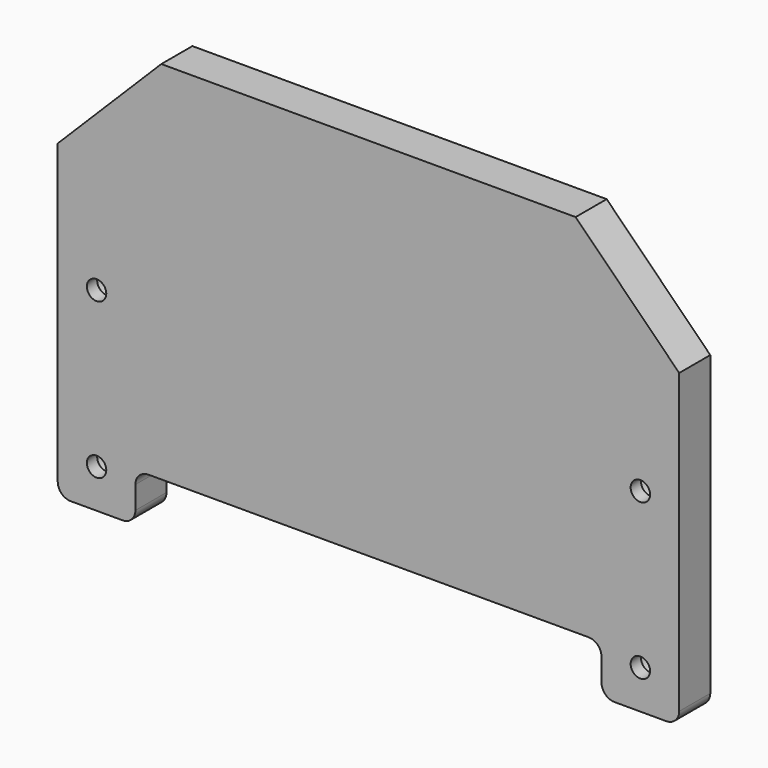
from build123d import *

# Parameters (mm, degrees)
F0_W           = 304.8
F0_H           = 203.2
F1_DEPTH       = 19.05
F2_W           = 228.6
F2_H           = 23.8541702911
F3_DEPTH       = 19.051
F4_R           = 6.35
F5_R           = 6.35
F6_DEPTH       = 12.7
F8_D           = 9.525
F8_CBORE_D     = 15.875
F8_CBORE_DEPTH = 12.7
F9_SIZE        = 50.8


with BuildPart() as f1:
    # F0 (on Front) → F1 (new body)
    with BuildSketch(Plane.XZ):
        with Locations((-42.4302353088, -7.5749112293)):
            Rectangle(F0_W, F0_H)
    extrude(amount=F1_DEPTH)

    # F2 (on face) → F3 (cut, through all)
    with BuildSketch(Plane.XZ.offset(19.05)):
        with Locations((-42.4302353088, -97.2478260837)):
            Rectangle(F2_W, F2_H)
    extrude(amount=-F3_DEPTH, mode=Mode.SUBTRACT)

    # F4
    f4_edges = [f1.edges().sort_by_distance(p)[0] for p in [
        (-156.730235, -9.525, -85.320741),
        (-156.730235, -9.525, -109.174911),
        (-194.830235, -9.525, -109.174911),
        (71.869765, -9.525, -85.320741),
        (71.869765, -9.525, -109.174911),
        (109.969765, -9.525, -109.174911),
    ]]
    fillet(f4_edges, radius=F4_R)

    # F5 (on face) → F6 (cut)
    with BuildSketch(Plane(origin=(0, 0, 0), x_dir=(-1, 0, 0), z_dir=(0, 1, 0))):
        with Locations((-84.5697646912, 23.4674590618)):
            Circle(F5_R)
        with BuildLine():
            ThreePointArc((175.7802353088, 23.4674590618), (169.4302353088, 29.8174590618), (163.0802353088, 23.4674590618))
            ThreePointArc((163.0802353088, 23.4674590618), (169.4302353088, 17.1174590618), (175.7802353088, 23.4674590618))
        make_face()
    extrude(amount=-F6_DEPTH, mode=Mode.SUBTRACT)

    # F8 (through all)
    with Locations(Plane(origin=(0, 0, 0), x_dir=(-1, 0, 0), z_dir=(0, 1, 0))):
        with Locations((-90.9197646912, -13.9249112293), (-90.9197646912, -90.1249112293), (175.7802353088, -90.1249112293), (175.7802353088, -13.9249112293)):
            CounterBoreHole(F8_D / 2, F8_CBORE_D / 2, F8_CBORE_DEPTH)

    # F9
    f9_edges = [f1.edges().sort_by_distance(p)[0] for p in [
        (109.969765, -9.525, 94.025089),
        (-194.830235, -9.525, 94.025089),
    ]]
    chamfer(f9_edges, length=F9_SIZE)


solid = f1.part
